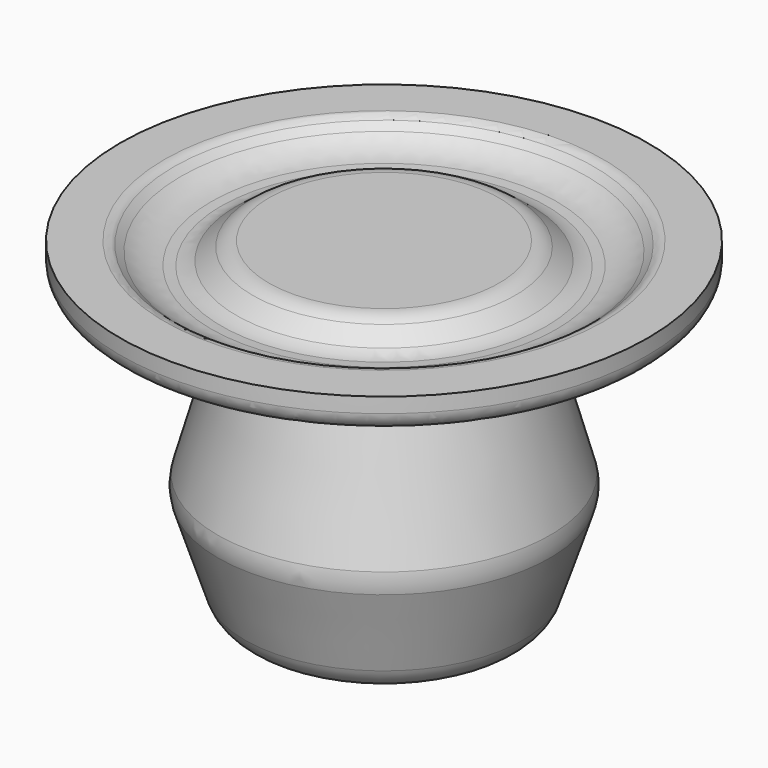
from build123d import *

# Parameters (mm, degrees)
F2_R = 1.979654
F3_R = 3.788583
F4_R = 1.653235
F5_R = 1.054441
F6_R = 1.312708
F7_R = 2.563491


with BuildPart() as f1:
    # F0 (on Front) → F1 (revolve)
    with BuildSketch(Plane.XZ):
        Polygon((-9.7125, 0), (0, 0), (0, 24.412502), (-9.1875, 24.412502), (-11.408553, 22.717658), (-14.042635, 22.871565), (-15.8375, 24.412502), (-19.512501, 24.412502), (-19.512501, 22.312501), (-10.4125, 19.6875), (-9.8875, 17.762501), (-12.5125, 8.4875), align=None)
    revolve(axis=Axis((0, 0, 12.206251), (0, 0, -1)))

    # F2
    f2_edges = [f1.edges().sort_by_distance(p)[0] for p in [
        (9.1875, 0, 24.412502),
    ]]
    fillet(f2_edges, radius=F2_R)

    # F3
    f3_edges = [f1.edges().sort_by_distance(p)[0] for p in [
        (14.042635, 0, 22.871565),
    ]]
    fillet(f3_edges, radius=F3_R)

    # F4
    f4_edges = [f1.edges().sort_by_distance(p)[0] for p in [
        (11.408553, 0, 22.717658),
    ]]
    fillet(f4_edges, radius=F4_R)

    # F5
    f5_edges = [f1.edges().sort_by_distance(p)[0] for p in [
        (15.8375, 0, 24.412502),
    ]]
    fillet(f5_edges, radius=F5_R)

    # F6
    f6_edges = [f1.edges().sort_by_distance(p)[0] for p in [
        (19.512501, 0, 22.312501),
    ]]
    fillet(f6_edges, radius=F6_R)

    # F7
    f7_edges = [f1.edges().sort_by_distance(p)[0] for p in [
        (12.5125, 0, 8.4875),
        (9.7125, 0, 0),
        (-11.1125, 0, 4.24375),
    ]]
    fillet(f7_edges, radius=F7_R)


solid = f1.part
